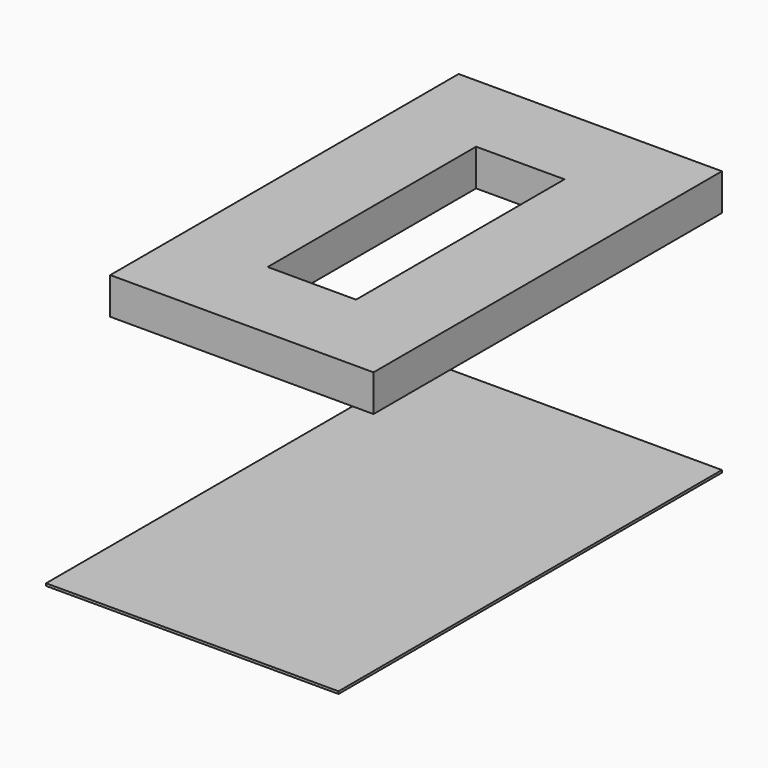
from build123d import *

# Parameters (mm, degrees)
F1_W     = 2752.725
F1_H     = 4552.95
F1_W_2   = 923.925
F1_H_2   = 2724.15
F2_DEPTH = 384.175
F3_W     = 3057.525
F3_H     = 5010.15
F4_DEPTH = 25.4


with BuildPart() as f2:
    # F1 (on offset) → F2 (new body)
    with BuildSketch(Plane.XY.offset(2749.55)):
        with Locations((-461.9625, 1362.075)):
            Rectangle(F1_W, F1_H)
        with Locations((-461.9625, 1362.075)):
            Rectangle(F1_W_2, F1_H_2, mode=Mode.SUBTRACT)
    extrude(amount=-F2_DEPTH)


with BuildPart() as f4:
    # F3 (on Top) → F4 (new body)
    with BuildSketch(Plane.XY):
        with Locations((-614.3625, 1133.475)):
            Rectangle(F3_W, F3_H)
    extrude(amount=-F4_DEPTH)


solid = Compound([f2.part, f4.part])
